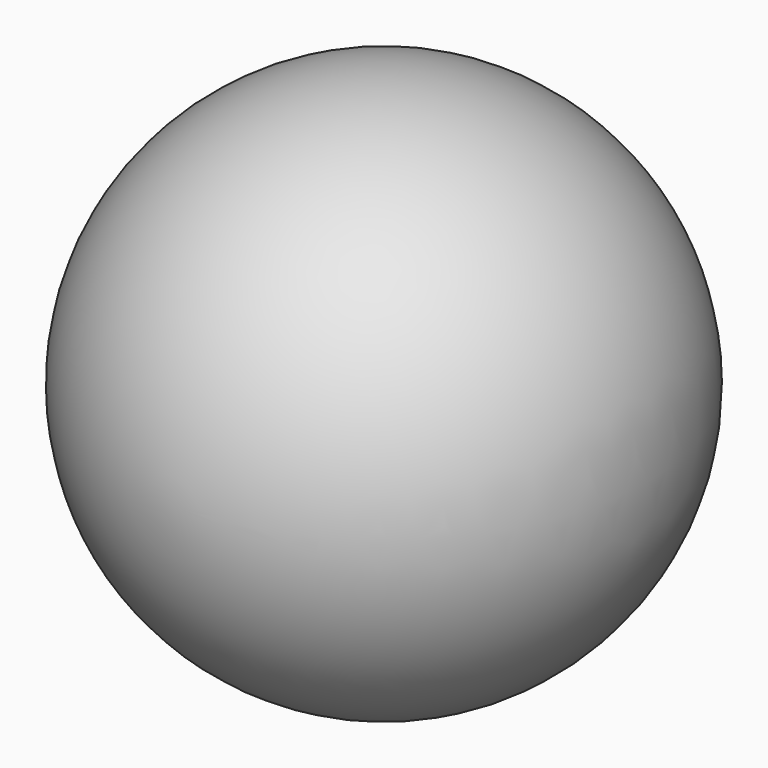
from build123d import *


with BuildPart() as f1:
    # F0 (on Top) → F1 (revolve)
    with BuildSketch(Plane.XY):
        with BuildLine():
            ThreePointArc((0, 47.625), (47.625, 0), (0, -47.625))
            Line((0, -47.625), (0, -50.8))
            ThreePointArc((0, -50.8), (50.8, 0), (0, 50.8))
            Line((0, 50.8), (0, 47.625))
        make_face()
    revolve(axis=Axis((0, 23.8125, 0), (0, 1, 0)))


solid = f1.part
